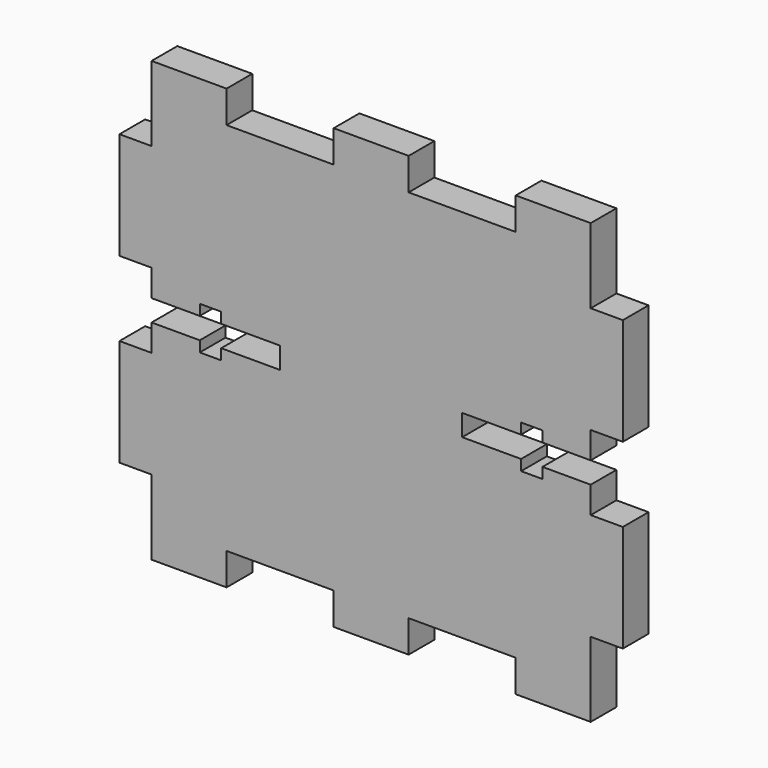
from build123d import *

# Parameters (mm, degrees)
F0_W     = 3
F0_H     = 10
F1_DEPTH = 1.5


with BuildPart() as f1:
    # F0 (on Front) → F1 (new body, symmetric)
    with BuildSketch(Plane.XZ):
        Polygon((0, 17.5), (0, 0), (8.5, 0), (8.5, 1), (14, 1), (14, 2), (16, 2), (16, 1), (20.5, 1), (20.5, 3.5), (20.5, 13.5), (20.5, 17.5), (20.5, 20.5), (13.5, 20.5), (13.5, 17.5), (3.5, 17.5), (3.5, 20.5), (0, 20.5), align=None)
        Polygon((-8.5, 0), (0, 0), (0, 17.5), (0, 20.5), (-3.5, 20.5), (-3.5, 17.5), (-13.5, 17.5), (-13.5, 20.5), (-20.5, 20.5), (-20.5, 17.5), (-20.5, 13.5), (-20.5, 3.5), (-20.5, 1), (-16, 1), (-16, 2), (-14, 2), (-14, 1), (-8.5, 1), align=None)
        Polygon((8.5, 0), (0, 0), (0, -17.5), (0, -20.5), (3.5, -20.5), (3.5, -17.5), (13.5, -17.5), (13.5, -20.5), (20.5, -20.5), (20.5, -17.5), (20.5, -13.5), (20.5, -3.5), (20.5, -1), (16, -1), (16, -2), (14, -2), (14, -1), (8.5, -1), align=None)
        Polygon((0, -17.5), (0, 0), (-8.5, 0), (-8.5, -1), (-14, -1), (-14, -2), (-16, -2), (-16, -1), (-20.5, -1), (-20.5, -3.5), (-20.5, -13.5), (-20.5, -17.5), (-20.5, -20.5), (-13.5, -20.5), (-13.5, -17.5), (-3.5, -17.5), (-3.5, -20.5), (0, -20.5), align=None)
        with Locations((22, 8.5)):
            Rectangle(F0_W, F0_H)
        with Locations((22, -8.5)):
            Rectangle(F0_W, F0_H)
        with Locations((-22, -8.5)):
            Rectangle(F0_W, F0_H)
        with Locations((-22, 8.5)):
            Rectangle(F0_W, F0_H)
    extrude(amount=F1_DEPTH, both=True)


solid = f1.part
